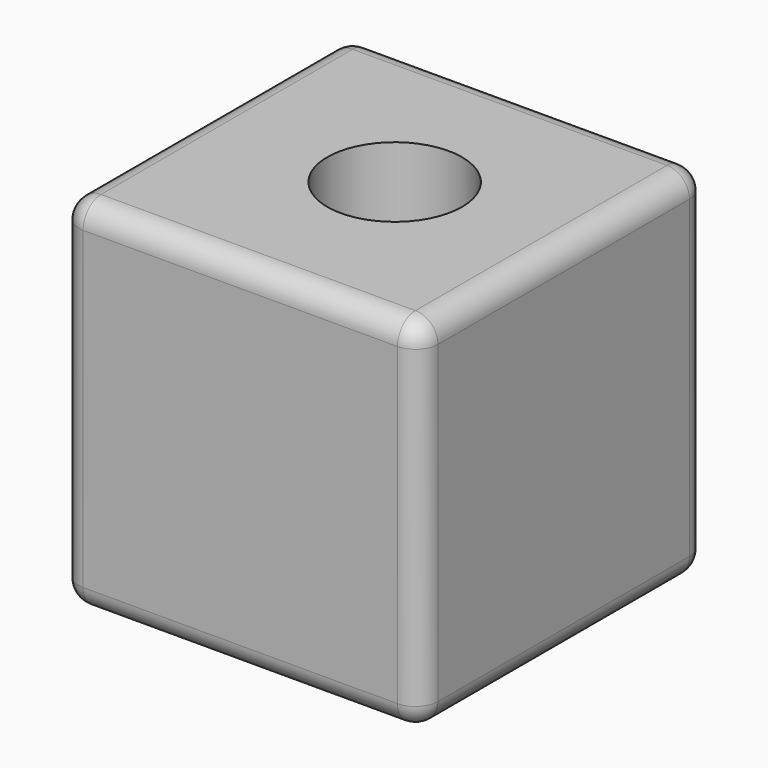
from build123d import *

# Parameters (mm, degrees)
F0_W     = 80
F0_H     = 80
F1_DEPTH = 40
F2_R     = 5
F3_R     = 15
F4_DEPTH = 80.001


with BuildPart() as f1:
    # F0 (on Top) → F1 (new body, symmetric)
    with BuildSketch(Plane.XY):
        with Locations((-1.933729, -0.546573)):
            Rectangle(F0_W, F0_H)
    extrude(amount=F1_DEPTH, both=True)

    # F2
    f2_edges = [f1.edges().sort_by_distance(p)[0] for p in [
        (-41.933729, -0.546573, 40),
        (-1.933729, 39.453427, 40),
        (38.066271, -0.546573, 40),
        (-1.933729, -40.546573, 40),
        (-1.933729, -40.546573, -40),
        (38.066271, 39.453427, 0),
        (-41.933729, 39.453427, 0),
        (-1.933729, 39.453427, -40),
        (-41.933729, -0.546573, -40),
        (-41.933729, -40.546573, 0),
        (38.066271, -0.546573, -40),
        (38.066271, -40.546573, 0),
    ]]
    fillet(f2_edges, radius=F2_R)

    # F3 (on face) → F4 (cut, through all)
    with BuildSketch(Plane.XY.offset(40)):
        Circle(F3_R)
    extrude(amount=-F4_DEPTH, mode=Mode.SUBTRACT)


solid = f1.part
